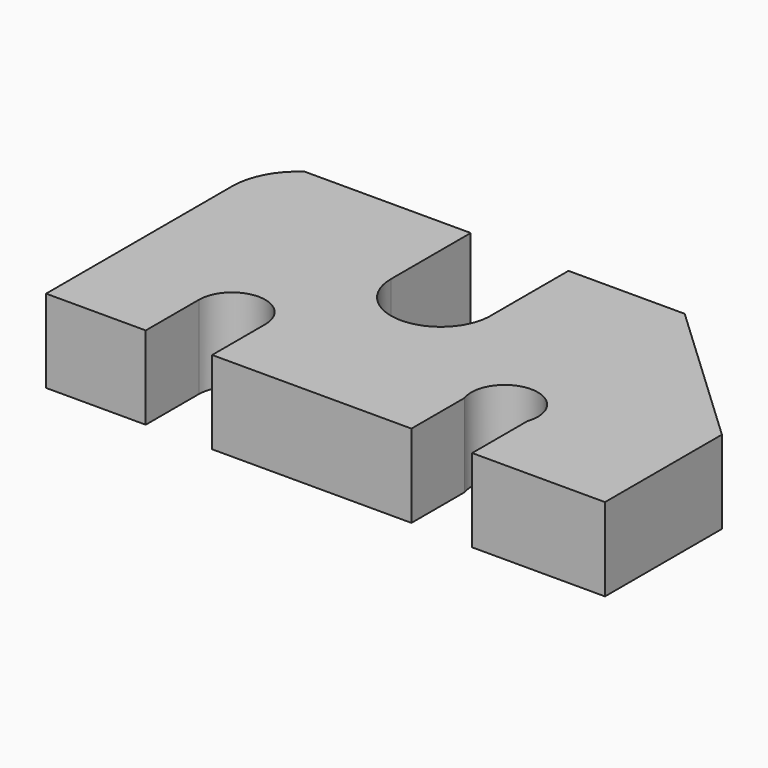
from build123d import *

# Parameters (mm, degrees)
F1_DEPTH = 25


with BuildPart() as f1:
    # F0 (on Top) → F1 (new body)
    with BuildSketch(Plane.XY):
        with BuildLine():
            Line((-64.169525, 22.113068), (-64.169525, -47.886932))
            Line((-64.169525, -47.886932), (-34.169525, -47.886932))
            Line((-34.169525, -47.886932), (-34.169525, -27.886932))
            ThreePointArc((-34.169525, -27.886932), (-24.169525, -17.886932), (-14.169525, -27.886932))
            Line((-14.169525, -27.886932), (-14.169525, -47.886932))
            Line((-14.169525, -47.886932), (45.830475, -47.886932))
            Line((45.830475, -47.886932), (45.830475, -27.886932))
            ThreePointArc((45.830475, -27.886932), (55.28729, -14.635985), (64.744104, -27.886932))
            Line((64.744104, -27.886932), (64.744104, -48.687104))
            Line((64.744104, -48.687104), (104.744104, -48.687104))
            Line((104.744104, -48.687104), (104.744104, -4.687104))
            Line((104.744104, -4.687104), (59.47641, 37.893837))
            Line((59.47641, 37.893837), (24.47641, 37.893837))
            Line((24.47641, 37.893837), (24.47641, 7.893837))
            ThreePointArc((24.47641, 7.893837), (9.144929, -6.407142), (-5.50748, 8.588831))
            Line((-5.50748, 8.588831), (-5.50748, 38.588831))
            Line((-5.50748, 38.588831), (-55.50748, 38.588831))
            ThreePointArc((-55.50748, 38.588831), (-61.872055, 31.420078), (-64.169525, 22.113068))
        make_face()
    extrude(amount=F1_DEPTH)


solid = f1.part
